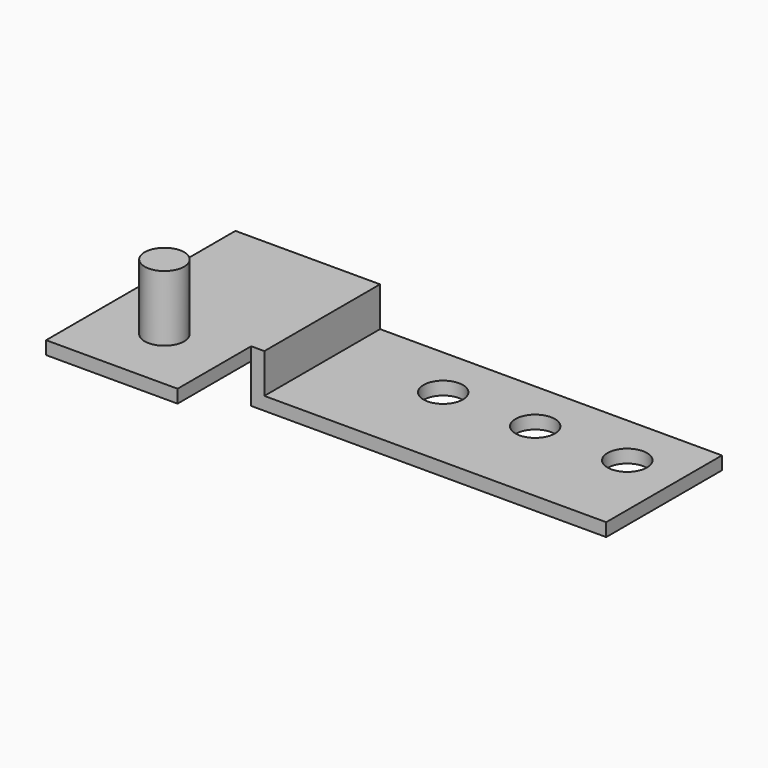
from build123d import *

# Parameters (mm, degrees)
PAD_DEPTH       = 18
SKETCH001_W     = 27
SKETCH001_H     = 7
POCKET_DEPTH    = 10
SKETCH002_W     = 1
SKETCH002_H     = 7
POCKET001_DEPTH = 4.001
SKETCH003_R     = 1.5
POCKET002_DEPTH = 1.001
SKETCH004_R     = 1.5
PAD001_DEPTH    = 6


with BuildPart() as part:
    # Sketch → Pad (new body)
    with BuildSketch(Plane.XZ):
        Polygon((0, 0), (27, 0), (27, 1), (1, 1), (1, 4), (-10, 4), (-10, 3), (0, 3), align=None)
    extrude(amount=PAD_DEPTH)

    # Sketch001 (on Face3 of Pad) → Pocket (cut)
    with BuildSketch(Plane(origin=(0, 0, 1), x_dir=(-1, 0, 0), z_dir=(0, 0, 1))):
        with Locations((-13.5, 14.5)):
            Rectangle(SKETCH001_W, SKETCH001_H)
    extrude(amount=-POCKET_DEPTH, mode=Mode.SUBTRACT)

    # Sketch002 (on Face8 of Pocket) → Pocket001 (cut, through all)
    with BuildSketch(Plane(origin=(0, 0, 4), x_dir=(-1, 0, 0), z_dir=(0, 0, 1))):
        with Locations((-0.5, 14.5)):
            Rectangle(SKETCH002_W, SKETCH002_H)
    extrude(amount=-POCKET001_DEPTH, mode=Mode.SUBTRACT)

    # Sketch003 (on Face7 of Pocket001) → Pocket002 (cut, through all)
    with BuildSketch(Plane(origin=(0, 0, 1), x_dir=(-1, 0, 0), z_dir=(0, 0, 1))):
        with Locations((-23, 4)):
            Circle(SKETCH003_R)
        with Locations((-16, 4)):
            Circle(SKETCH003_R)
        with Locations((-9, 4)):
            Circle(SKETCH003_R)
    extrude(amount=-POCKET002_DEPTH, mode=Mode.SUBTRACT)

    # Sketch004 (on Face14 of Pocket002) → Pad001 (join)
    with BuildSketch(Plane(origin=(0, 0, 3), x_dir=(1, 0, 0), z_dir=(0, 0, -1))):
        with Locations((-5, 13)):
            Circle(SKETCH004_R)
    extrude(amount=-PAD001_DEPTH)


solid = part.part
